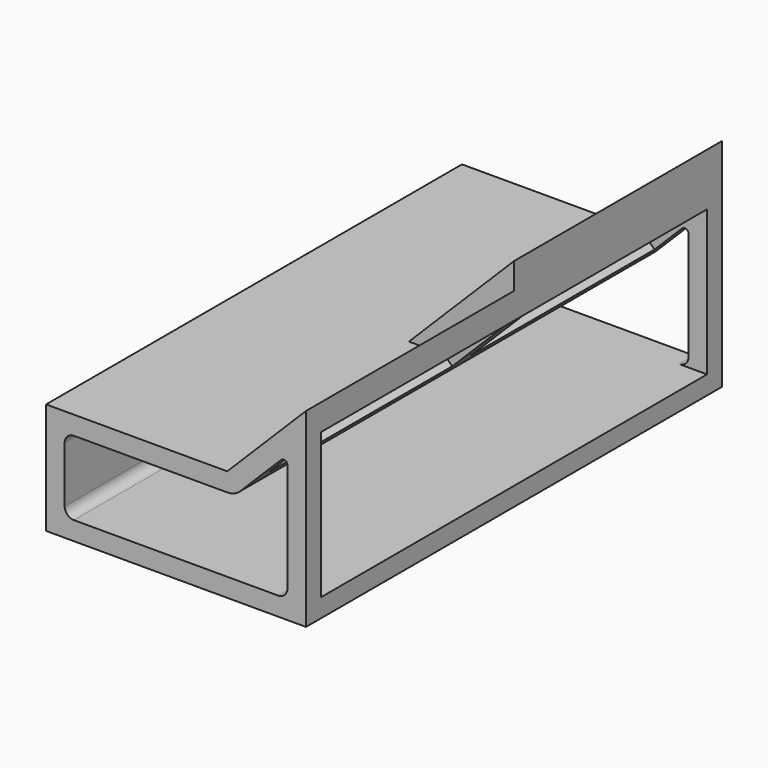
from build123d import *

# Parameters (mm, degrees)
F1_DEPTH  = 70
F3_DEPTH  = 65
F5_DEPTH  = 70
F6_R      = 2.5
F7_R      = 5
F8_R      = 1
F9_R      = 1.875
F10_DEPTH = 41.214203
F11_W     = 61.875
F11_H     = 20
F12_DEPTH = 3
F13_R     = 1.875
F14_DEPTH = 8


with BuildPart() as f1:
    # F0 (on Front) → F1 (new body, symmetric)
    with BuildSketch(Plane.XZ):
        Polygon((-35, 30), (-35, 0), (35, 0), (35, 30), (35, 51.213203), (13.786797, 30), align=None)
        Polygon((30, 5), (-30, 5), (-30, 25), (15.857864, 25), (30, 39.142136), (30, 30), align=None, mode=Mode.SUBTRACT)
    extrude(amount=F1_DEPTH, both=True)

    # F2 (on Front) → F3 (cut, symmetric)
    with BuildSketch(Plane.XZ):
        Polygon((35, 44.142136), (30, 39.142136), (30, 5), (35, 5), align=None)
    extrude(amount=F3_DEPTH, both=True, mode=Mode.SUBTRACT)

    # F4 (on face) → F5 (join)
    with BuildSketch(Plane(origin=(0, 70, 0), x_dir=(-1, 0, 0), z_dir=(0, 1, 0))):
        Polygon((-13.786797, 30), (-6.715729, 30), (-35, 58.284271), (-35, 51.213203), align=None)
    extrude(amount=-F5_DEPTH)

    # F6
    f6_edges = [f1.edges().sort_by_distance(p)[0] for p in [
        (-30, 0, 5),
        (-30, 0, 25),
        (30, 67.5, 5),
        (30, -67.5, 5),
    ]]
    fillet(f6_edges, radius=F6_R)

    # F7
    f7_edges = [f1.edges().sort_by_distance(p)[0] for p in [
        (15.857864, 0, 25),
    ]]
    fillet(f7_edges, radius=F7_R)

    # F8
    f8_edges = [f1.edges().sort_by_distance(p)[0] for p in [
        (30, 67.5, 39.142136),
        (30, -67.5, 39.142136),
    ]]
    fillet(f8_edges, radius=F8_R)

    # F9 (on face) → F10 (cut, through all)
    with BuildSketch(Plane(origin=(-11.642136, 0, 11.642136), x_dir=(0, -1, 0), z_dir=(-0.707107, 0, 0.707107))):
        with Locations((-62, 50.961941)):
            Circle(F9_R)
        with Locations((-57, 50.961941)):
            Circle(F9_R)
        with Locations((-52, 50.961941)):
            Circle(F9_R)
        with Locations((-47, 50.961941)):
            Circle(F9_R)
        with Locations((-42, 50.961941)):
            Circle(F9_R)
        with Locations((-37, 50.961941)):
            Circle(F9_R)
        with Locations((-32, 50.961941)):
            Circle(F9_R)
        with Locations((-27, 50.961941)):
            Circle(F9_R)
        with Locations((-22, 50.961941)):
            Circle(F9_R)
        with Locations((-17, 50.961941)):
            Circle(F9_R)
        with Locations((-12, 50.961941)):
            Circle(F9_R)
        with Locations((-7, 50.961941)):
            Circle(F9_R)
        with Locations((8, 50.961941)):
            Circle(F9_R)
        with Locations((13, 50.961941)):
            Circle(F9_R)
        with Locations((18, 50.961941)):
            Circle(F9_R)
        with Locations((23, 50.961941)):
            Circle(F9_R)
        with Locations((28, 50.961941)):
            Circle(F9_R)
        with Locations((33, 50.961941)):
            Circle(F9_R)
        with Locations((38, 50.961941)):
            Circle(F9_R)
        with Locations((43, 50.961941)):
            Circle(F9_R)
        with Locations((48, 50.961941)):
            Circle(F9_R)
        with Locations((53, 50.961941)):
            Circle(F9_R)
        with Locations((58, 50.961941)):
            Circle(F9_R)
        with Locations((63, 50.961941)):
            Circle(F9_R)
        with Locations((-62, 40.961941)):
            Circle(F9_R)
        with Locations((-57, 40.961941)):
            Circle(F9_R)
        with Locations((-52, 40.961941)):
            Circle(F9_R)
        with Locations((-47, 40.961941)):
            Circle(F9_R)
        with Locations((-42, 40.961941)):
            Circle(F9_R)
        with Locations((-37, 40.961941)):
            Circle(F9_R)
        with Locations((-32, 40.961941)):
            Circle(F9_R)
        with Locations((-27, 40.961941)):
            Circle(F9_R)
        with Locations((-22, 40.961941)):
            Circle(F9_R)
        with Locations((-17, 40.961941)):
            Circle(F9_R)
        with Locations((-12, 40.961941)):
            Circle(F9_R)
        with Locations((-7, 40.961941)):
            Circle(F9_R)
        with Locations((8, 40.961941)):
            Circle(F9_R)
        with Locations((13, 40.961941)):
            Circle(F9_R)
        with Locations((18, 40.961941)):
            Circle(F9_R)
        with Locations((23, 40.961941)):
            Circle(F9_R)
        with Locations((28, 40.961941)):
            Circle(F9_R)
        with Locations((33, 40.961941)):
            Circle(F9_R)
        with Locations((38, 40.961941)):
            Circle(F9_R)
        with Locations((43, 40.961941)):
            Circle(F9_R)
        with Locations((48, 40.961941)):
            Circle(F9_R)
        with Locations((53, 40.961941)):
            Circle(F9_R)
        with Locations((58, 40.961941)):
            Circle(F9_R)
        with Locations((63, 40.961941)):
            Circle(F9_R)
    extrude(amount=-F10_DEPTH, mode=Mode.SUBTRACT)

    # F11 (on face) → F12 (cut)
    with BuildSketch(Plane(origin=(-4.571068, 0, 4.571068), x_dir=(0, 1, 0), z_dir=(0.707107, 0, -0.707107))):
        with Locations((-34.0625, 45.961941)):
            Rectangle(F11_W, F11_H)
    extrude(amount=-F12_DEPTH, mode=Mode.SUBTRACT)

    # F13 (on face) → F14 (cut)
    with BuildSketch(Plane(origin=(-4.571068, 0, 4.571068), x_dir=(0, 1, 0), z_dir=(0.707107, 0, -0.707107))):
        Polygon((65, 55.961941), (3, 55.961941), (3, 35.961941), (65, 35.961941), (65, 46.47666), align=None)
        with Locations((7, 40.961941)):
            Circle(F13_R, mode=Mode.SUBTRACT)
        with Locations((12, 40.961941)):
            Circle(F13_R, mode=Mode.SUBTRACT)
        with Locations((17, 40.961941)):
            Circle(F13_R, mode=Mode.SUBTRACT)
        with Locations((22, 40.961941)):
            Circle(F13_R, mode=Mode.SUBTRACT)
        with Locations((27, 40.961941)):
            Circle(F13_R, mode=Mode.SUBTRACT)
        with Locations((32, 40.961941)):
            Circle(F13_R, mode=Mode.SUBTRACT)
        with Locations((37, 40.961941)):
            Circle(F13_R, mode=Mode.SUBTRACT)
        with Locations((42, 40.961941)):
            Circle(F13_R, mode=Mode.SUBTRACT)
        with Locations((47, 40.961941)):
            Circle(F13_R, mode=Mode.SUBTRACT)
        with Locations((52, 40.961941)):
            Circle(F13_R, mode=Mode.SUBTRACT)
        with Locations((57, 40.961941)):
            Circle(F13_R, mode=Mode.SUBTRACT)
        with Locations((62, 40.961941)):
            Circle(F13_R, mode=Mode.SUBTRACT)
        with Locations((7, 50.961941)):
            Circle(F13_R, mode=Mode.SUBTRACT)
        with Locations((12, 50.961941)):
            Circle(F13_R, mode=Mode.SUBTRACT)
        with Locations((17, 50.961941)):
            Circle(F13_R, mode=Mode.SUBTRACT)
        with Locations((22, 50.961941)):
            Circle(F13_R, mode=Mode.SUBTRACT)
        with Locations((27, 50.961941)):
            Circle(F13_R, mode=Mode.SUBTRACT)
        with Locations((32, 50.961941)):
            Circle(F13_R, mode=Mode.SUBTRACT)
        with Locations((37, 50.961941)):
            Circle(F13_R, mode=Mode.SUBTRACT)
        with Locations((42, 50.961941)):
            Circle(F13_R, mode=Mode.SUBTRACT)
        with Locations((47, 50.961941)):
            Circle(F13_R, mode=Mode.SUBTRACT)
        with Locations((52, 50.961941)):
            Circle(F13_R, mode=Mode.SUBTRACT)
        with Locations((57, 50.961941)):
            Circle(F13_R, mode=Mode.SUBTRACT)
        with Locations((62, 50.961941)):
            Circle(F13_R, mode=Mode.SUBTRACT)
    extrude(amount=-F14_DEPTH, mode=Mode.SUBTRACT)


solid = f1.part
